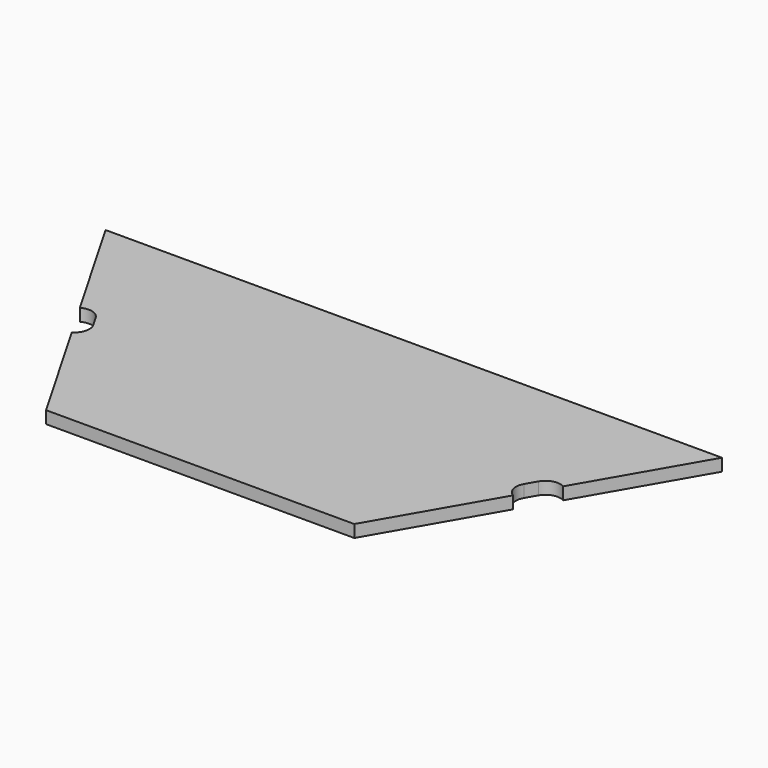
from build123d import *

# Parameters (mm, degrees)
F1_DEPTH = 0.5
F3_DEPTH = 0.501
F5_DEPTH = 0.501
F7_ANGLE = 180


with BuildPart() as f1:
    # F0 (on Top) → F1 (new body)
    with BuildSketch(Plane.XY):
        Polygon((6.25, -10.8253175473), (12.5, 0), (6.25, 10.8253175473), (-6.25, 10.8253175473), (-12.5, 0), (-6.25, -10.8253175473), align=None)
    extrude(amount=F1_DEPTH)

    # F2 (on face) → F3 (cut, through all)
    with BuildSketch(Plane.XY.offset(0.5)):
        with BuildLine():
            ThreePointArc((0.85, -10.8253175473), (0.6742640687, -10.4010534786), (0.25, -10.2253175473))
            Line((0.25, -10.2253175473), (-0.25, -10.2253175473))
            ThreePointArc((-0.25, -10.2253175473), (-0.6742640687, -10.4010534786), (-0.85, -10.8253175473))
            Line((-0.85, -10.8253175473), (0.85, -10.8253175473))
        make_face()
        with BuildLine():
            Line((8.7303847577, 5.3291651246), (8.9803847577, 4.8961524227))
            ThreePointArc((8.9803847577, 4.8961524227), (9.3447085729, 4.6165969269), (9.8, 4.6765371804))
            Line((9.8, 4.6765371804), (8.95, 6.1487803669))
            ThreePointArc((8.95, 6.1487803669), (8.6704445042, 5.7844565517), (8.7303847577, 5.3291651246))
        make_face()
        with BuildLine():
            Line((-8.9803847577, 4.8961524227), (-8.7303847577, 5.3291651246))
            ThreePointArc((-8.7303847577, 5.3291651246), (-8.6704445042, 5.7844565517), (-8.95, 6.1487803669))
            Line((-8.95, 6.1487803669), (-9.8, 4.6765371804))
            ThreePointArc((-9.8, 4.6765371804), (-9.3447085729, 4.6165969269), (-8.9803847577, 4.8961524227))
        make_face()
    extrude(amount=-F3_DEPTH, mode=Mode.SUBTRACT)

    # F4 (on face) → F5 (cut, through all)
    with BuildSketch(Plane.XY.offset(0.5)):
        Polygon((12.5, 0), (-12.5, 0), (-6.25, -10.8253175473), (6.25, -10.8253175473), align=None)
    extrude(amount=-F5_DEPTH, mode=Mode.SUBTRACT)


with BuildPart() as f1_1:
    # F7: moved
    add(f1.part.rotate(Axis((0, 0, 5.479618907), (0, 0, 1)), F7_ANGLE))


solid = f1_1.part
